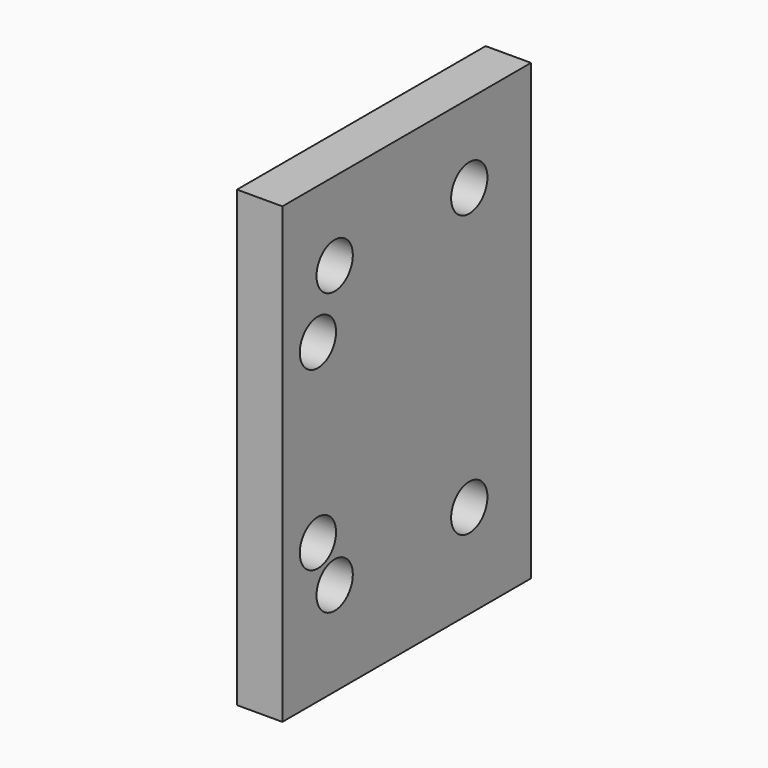
from build123d import *

# Parameters (mm, degrees)
F0_W     = 173.918859
F0_H     = 254
F1_DEPTH = 25.4
F3_D     = 25.4
F5_D     = 25.4


with BuildPart() as f1:
    # F0 (on Right) → F1 (new body)
    with BuildSketch(Plane.YZ):
        with Locations((-22.266922, -7.02697)):
            Rectangle(F0_W, F0_H)
    extrude(amount=F1_DEPTH)

    # F3 (through all)
    with Locations(Plane(origin=(0, 0, 0), x_dir=(0, -1, 0), z_dir=(-1, 0, 0))):
        with Locations((-21.514764, -81.443645), (72.651654, -81.443645), (-21.514764, 75.946935), (72.651654, 75.946935)):
            Hole(F3_D / 2)

    # F5 (through all)
    with Locations(Plane(origin=(0, 0, 0), x_dir=(0, -1, 0), z_dir=(-1, 0, 0))):
        with Locations((84.372841, -55.81788), (84.372841, 42.938467)):
            Hole(F5_D / 2)


solid = f1.part
